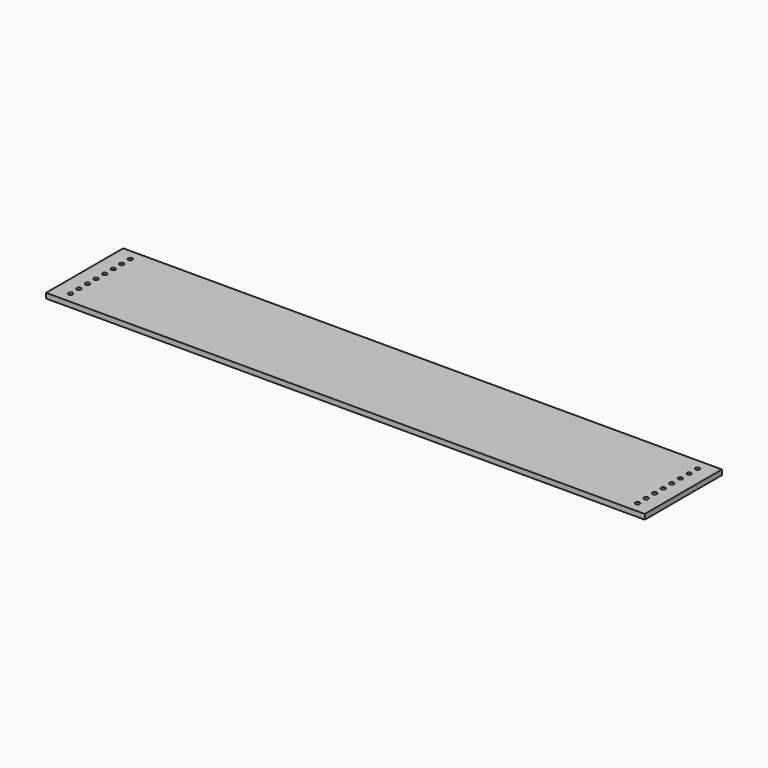
from build123d import *

# Parameters (mm, degrees)
F0_W     = 709.8
F0_H     = 114.3
F0_R     = 2.5527
F1_DEPTH = 6


with BuildPart() as f1:
    # F0 (on Top) → F1 (new body)
    with BuildSketch(Plane.XY):
        Rectangle(F0_W, F0_H)
        with Locations((-336.2, -44.45)):
            Circle(F0_R, mode=Mode.SUBTRACT)
        with Locations((-336.2, -31.75)):
            Circle(F0_R, mode=Mode.SUBTRACT)
        with Locations((-336.2, -19.05)):
            Circle(F0_R, mode=Mode.SUBTRACT)
        with Locations((-336.2, -6.35)):
            Circle(F0_R, mode=Mode.SUBTRACT)
        with Locations((336.2, -44.45)):
            Circle(F0_R, mode=Mode.SUBTRACT)
        with Locations((336.2, -31.75)):
            Circle(F0_R, mode=Mode.SUBTRACT)
        with Locations((336.2, -19.05)):
            Circle(F0_R, mode=Mode.SUBTRACT)
        with Locations((336.2, -6.35)):
            Circle(F0_R, mode=Mode.SUBTRACT)
        with Locations((-336.2, 6.35)):
            Circle(F0_R, mode=Mode.SUBTRACT)
        with Locations((-336.2, 19.05)):
            Circle(F0_R, mode=Mode.SUBTRACT)
        with Locations((-336.2, 31.75)):
            Circle(F0_R, mode=Mode.SUBTRACT)
        with Locations((-336.2, 44.45)):
            Circle(F0_R, mode=Mode.SUBTRACT)
        with Locations((336.2, 6.35)):
            Circle(F0_R, mode=Mode.SUBTRACT)
        with Locations((336.2, 19.05)):
            Circle(F0_R, mode=Mode.SUBTRACT)
        with Locations((336.2, 31.75)):
            Circle(F0_R, mode=Mode.SUBTRACT)
        with Locations((336.2, 44.45)):
            Circle(F0_R, mode=Mode.SUBTRACT)
    extrude(amount=F1_DEPTH)


solid = f1.part
